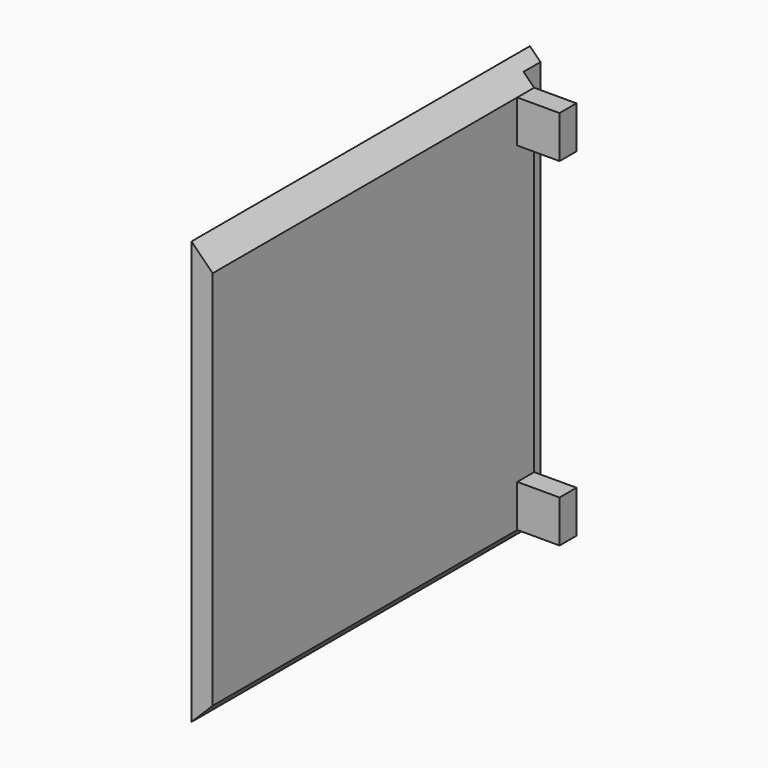
from build123d import *

# Parameters (mm, degrees)
F5_DEPTH      = 150
F5_DEPTH_BACK = 150
F6_W          = 12.5
F6_H          = 300
F7_DEPTH      = 15
F9_W          = 30
F9_H          = 30
F10_DEPTH     = 15


with BuildPart() as f5:
    # F2 (on Front) → F5 (new body, two sides)
    with BuildSketch(Plane.XZ) as f5_sk:
        Polygon((-100, 300), (-100, 0), (-85, 15), (-85, 285), align=None)
    extrude(amount=-F5_DEPTH)
    extrude(f5_sk.sketch, amount=F5_DEPTH_BACK)

    # F6 (on offset) → F7 (cut)
    with BuildSketch(Plane.XZ.offset(-150)):
        with Locations((-86.25, 150)):
            Rectangle(F6_W, F6_H)
    extrude(amount=F7_DEPTH, mode=Mode.SUBTRACT)

    # F9 (on offset) → F10 (join)
    with BuildSketch(Plane.XZ.offset(-135)):
        with Locations((-70, 270)):
            Rectangle(F9_W, F9_H)
        with Locations((-70, 30)):
            Rectangle(F9_W, F9_H)
    extrude(amount=F10_DEPTH)


solid = f5.part
